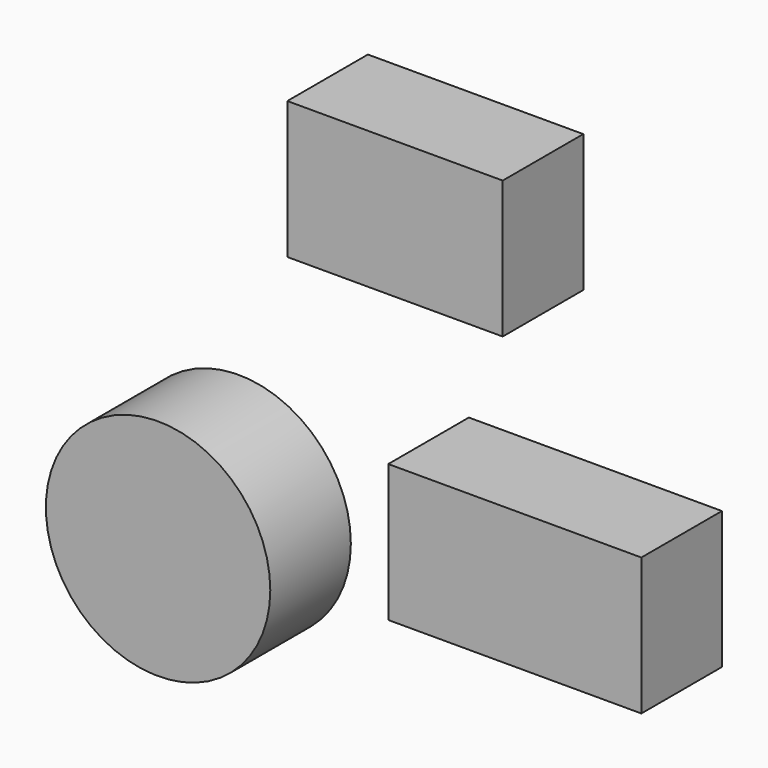
from build123d import *

# Parameters (mm, degrees)
F0_W     = 55.8131188154
F0_H     = 58.4868006408
F1_DEPTH = 25
F0_W_2   = 62.8315312788
F0_H_2   = 34.0894516557
F0_W_3   = 53.4736467525
F2_R     = 19.539154605
F3_DEPTH = 25
F2_R_2   = 27.8579849408
F6_R     = 5.0076526177
F7_DEPTH = 39.3


with BuildPart() as f1:
    # F0 (on Front) → F1 (new body)
    with BuildSketch(Plane.XZ):
        with Locations((-83.7196856737, 10.5276275426)):
            Rectangle(F0_W, F0_H)
    extrude(amount=F1_DEPTH)


with BuildPart() as f1b:
    # F0 (on Front) → F1, piece 2 (new body)
    with BuildSketch(Plane.XZ):
        with Locations((42.7789115347, -38.4341822937)):
            Rectangle(F0_W_2, F0_H_2)
    extrude(amount=F1_DEPTH)


with BuildPart() as f1c:
    # F0 (on Front) → F1, piece 3 (new body)
    with BuildSketch(Plane.XZ):
        with Locations((13.0341933109, 32.7526116744)):
            Rectangle(F0_W_3, F0_H_2)
    extrude(amount=F1_DEPTH)


with BuildPart() as f3:
    # F2 (on Front) → F3 (new body)
    with BuildSketch(Plane.XZ):
        with Locations((109.2867553234, 38.7683957815)):
            Circle(F2_R)
    extrude(amount=F3_DEPTH)


with BuildPart() as f3b:
    # F2 (on Front) → F3, piece 2 (new body)
    with BuildSketch(Plane.XZ):
        with Locations((-45.7868166268, -58.4867969155)):
            Circle(F2_R_2)
    extrude(amount=F3_DEPTH)

    # F6 (on offset) → F7 (cut)
    with BuildSketch(Plane.YZ.offset(-100.4)):
        with Locations((-13.3439255878, -56.1759546399)):
            Circle(F6_R)
    extrude(amount=F7_DEPTH, mode=Mode.SUBTRACT)


solid = Compound([f1b.part, f1c.part, f3b.part])
